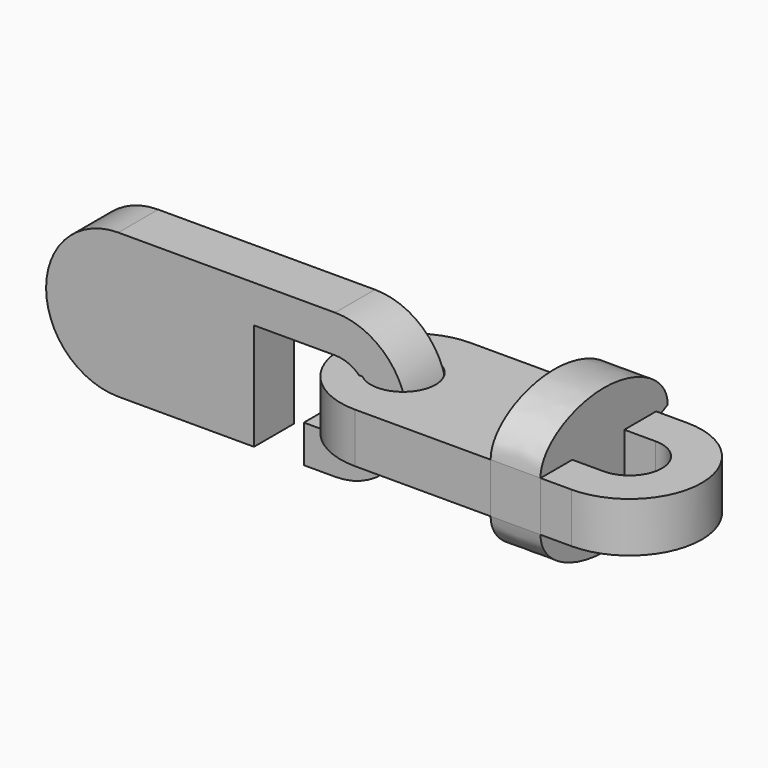
from build123d import *

# Parameters (mm, degrees)
F2_DEPTH  = 3.45
F7_ANGLE  = 90
F9_R      = 2.3979380946
F10_DEPTH = 6.726
F12_DEPTH = 3.45
F13_R     = 2.3979380946
F13_R_2   = 2.2479380946
F14_DEPTH = 3.45


with BuildPart() as f2:
    # F1 (on Top) → F2 (new body)
    with BuildSketch(Plane.XY):
        with BuildLine():
            Line((15, 5), (0, 5))
            ThreePointArc((0, 5), (-5, 0), (0, -5))
            Line((0, -5), (9.38999, -5))
            Line((9.38999, -5), (9.38999, 2.4))
            Line((9.38999, 2.4), (15, 2.4))
            ThreePointArc((15, 2.4), (17.4, 0), (15, -2.4))
            Line((15, -2.4), (12.83999, -2.4))
            Line((12.83999, -2.4), (12.83999, -5))
            Line((12.83999, -5), (15, -5))
            ThreePointArc((15, -5), (20, 0), (15, 5))
        make_face()
    extrude(amount=F2_DEPTH)


with BuildPart() as f7_1:
    # F7: copy of F2
    add(f2.part.rotate(Axis((4.6949949996, 0, 1.725), (1, 0, 0)), F7_ANGLE))


with BuildPart() as f7_1_1:
    # F8: moved
    add(f7_1.part.moved(Location((-19, 0, 0))))


with BuildPart() as f2_1:
    add(f2.part)

    # F9 (on face) → F10 (cut, through all)
    with BuildSketch(Plane.XY.offset(3.45)):
        with Locations((-0.6656776701, 1.7e-09)):
            Circle(F9_R)
    extrude(amount=-F10_DEPTH, mode=Mode.SUBTRACT)

    # F13 (on face) → F14 (join, through all)
    with BuildSketch(Plane.XY.offset(3.45)):
        with Locations((-0.6656776701, 1.7e-09)):
            Circle(F13_R)
        with Locations((-0.6656776701, 1.7e-09)):
            Circle(F13_R_2, mode=Mode.SUBTRACT)
        with BuildLine():
            ThreePointArc((15, 2.25), (17.25, 0), (15, -2.25))
            Line((15, -2.25), (12.83999, -2.25))
            Line((12.83999, -2.25), (12.83999, -2.4))
            Line((12.83999, -2.4), (15, -2.4))
            ThreePointArc((15, -2.4), (17.4, 0), (15, 2.4))
            Line((15, 2.4), (9.38999, 2.4))
            Line((9.38999, 2.4), (9.38999, 2.25))
            Line((9.38999, 2.25), (15, 2.25))
        make_face()
    extrude(amount=-F14_DEPTH)


with BuildPart() as f12:
    # F11 (on face) → F12 (new body)
    with BuildSketch(Plane.YZ.offset(9.38999)):
        with BuildLine():
            add(Edge.make_bspline(
                [(-5, 3.45), (-5, 5.3337180648), (0.5, 8.1162819352), (6, 5.3337180648), (6, 3.45)],
                knots=[0, 0, 0, 0, 0.5, 1, 1, 1, 1], degree=3))
            Line((-5, 3.45), (-5, 1.725))
            Line((-5, 1.725), (-5, 0))
            add(Edge.make_bspline(
                [(-5, 0), (-5, -1.8837180648), (0.5, -4.6662819352), (6, -1.8837180648), (6, 0)],
                knots=[0, 0, 0, 0, 0.5, 1, 1, 1, 1], degree=3))
            Line((6, 0), (5, 0.5))
            Line((5, 0.5), (5, 0))
            Line((5, 0), (2.4, 0))
            Line((2.4, 0), (2.4, 1.725))
            Line((2.4, 1.725), (2.4, 3.45))
            Line((2.4, 3.45), (5, 3.45))
            Line((5, 3.45), (5, 2.95))
            Line((5, 2.95), (6, 3.45))
        make_face()
    extrude(amount=F12_DEPTH)


solid = Compound([f7_1_1.part, f2_1.part, f12.part])
